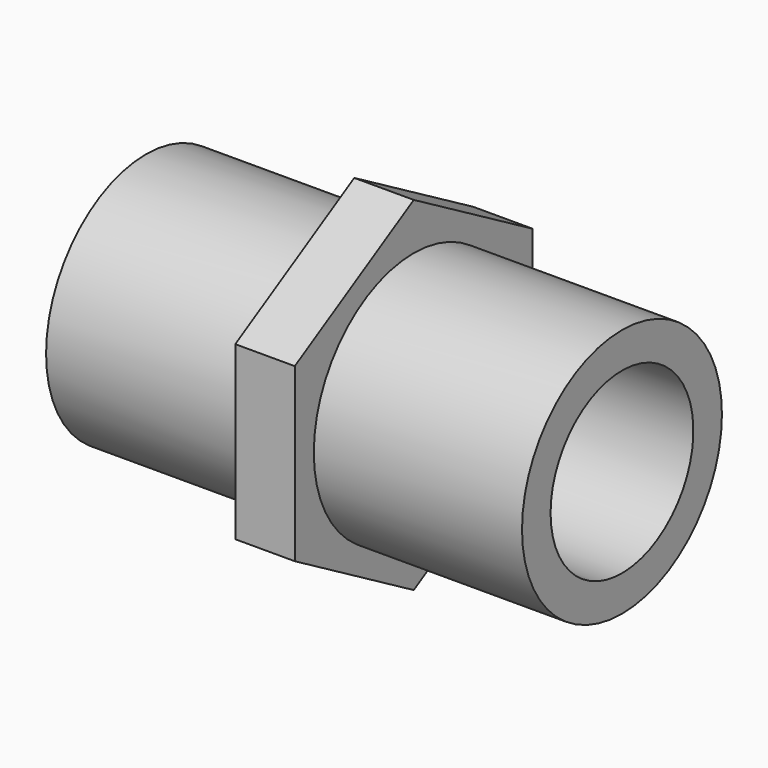
from build123d import *

# Parameters (mm, degrees)
PAD_DEPTH            = 3.175
CYLINDER_R           = 13.335
CYLINDER_DEPTH       = 50.8
CYLINDER_PITCH_ANGLE = 90
SKETCH002_R          = 9.525
POCKET_DEPTH         = 50.801


with BuildPart() as pad:
    # Sketch001 → Pad (new body, symmetric)
    with BuildSketch(Plane.YZ):
        Polygon((15.875, 9.165436), (0, 18.330871), (-15.875, 9.165436), (-15.875, -9.165436), (0, -18.330871), (15.875, -9.165436), align=None)
    extrude(amount=PAD_DEPTH, both=True)


with BuildPart() as pocket:
    # Cylinder → Cylinder (new body)
    with BuildSketch(Plane.XY):
        Circle(CYLINDER_R)
    extrude(amount=CYLINDER_DEPTH)


with BuildPart() as pocket_1:
    # Cylinder pitch: moved
    add(pocket.part.rotate(Axis((0, 0, 0), (0, 1, 0)), CYLINDER_PITCH_ANGLE))


with BuildPart() as pocket_2:
    # Cylinder placement: moved
    add(pocket_1.part.moved(Location((-25.4, 0, 0))))

    # Fusion: union Pad
    add(pad.part)

    # Sketch002 → Pocket (cut, through all)
    with BuildSketch(Plane(origin=(-25.4, 0, 0), x_dir=(0, -1, 0), z_dir=(-1, 0, 0))):
        Circle(SKETCH002_R)
    extrude(amount=-POCKET_DEPTH, mode=Mode.SUBTRACT)


solid = pocket_2.part
